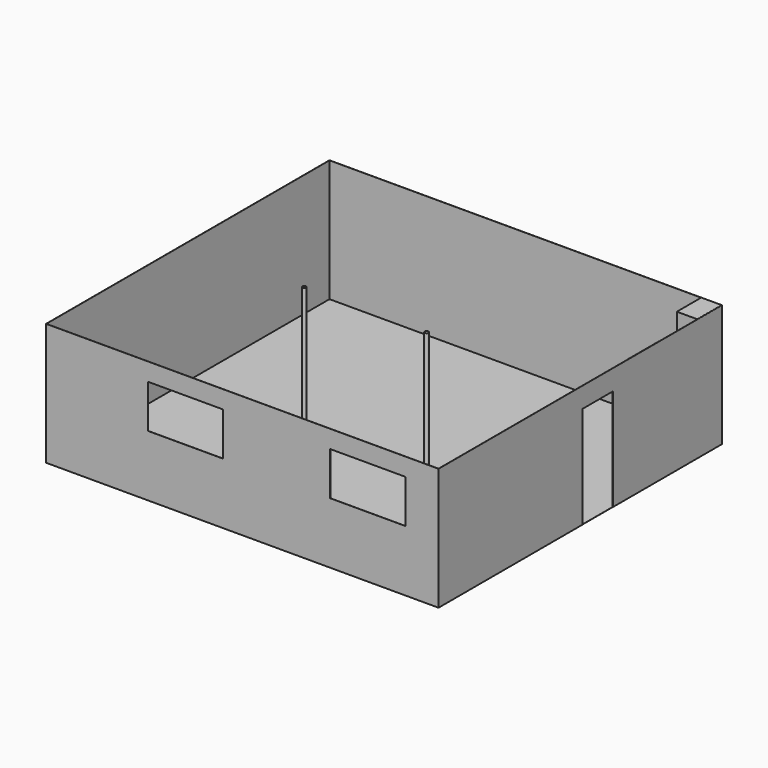
from build123d import *

# Parameters (mm, degrees)
F0_W      = 7823.2
F0_H      = 7061.2
F1_DEPTH  = 2438.4
F2_T      = -2.54
F3_W      = 1498.6
F3_H      = 863.6
F4_DEPTH  = 2.54
F5_W      = 762
F5_H      = 2032
F6_DEPTH  = 2.54
F7_R      = 38.1
F8_DEPTH  = 2438.4
F9_W      = 406.4
F9_H      = 609.6
F10_DEPTH = 2438.4
F11_W     = 711.2
F11_H     = 812.8
F12_DEPTH = 1803.4


with BuildPart() as f1:
    # F0 (on Top) → F1 (new body)
    with BuildSketch(Plane.XY):
        with Locations((435.2199990332, 73.9898422417)):
            Rectangle(F0_W, F0_H)
    extrude(amount=F1_DEPTH)

    # F2
    f2_openings = [f1.faces().sort_by_distance(p)[0] for p in [
        (435.219999, 73.989842, 2438.4),
    ]]
    offset(amount=F2_T, openings=f2_openings)

    # F3 (on face) → F4 (cut)
    with BuildSketch(Plane.XZ.offset(3456.6101577583)):
        with Locations((-695.0800009668, 1651)):
            Rectangle(F3_W, F3_H)
        with Locations((2937.1199990332, 1651)):
            Rectangle(F3_W, F3_H)
    extrude(amount=-F4_DEPTH, mode=Mode.SUBTRACT)

    # F5 (on face) → F6 (cut)
    with BuildSketch(Plane.YZ.offset(4346.8199990332)):
        with Locations((505.7898422417, 1016)):
            Rectangle(F5_W, F5_H)
    extrude(amount=-F6_DEPTH, mode=Mode.SUBTRACT)

    # F11 (on face) → F12 (join)
    with BuildSketch(Plane.XY.offset(2.54)):
        with Locations((3937.8799990332, 2586.0498422417)):
            Rectangle(F11_W, F11_H)
    extrude(amount=F12_DEPTH)


with BuildPart() as f8:
    # F7 (on face) → F8 (new body)
    with BuildSketch(Plane.XY):
        with Locations((-1114.1800009668, 23.1898422417)):
            Circle(F7_R)
    extrude(amount=F8_DEPTH)


with BuildPart() as f8b:
    # F7 (on face) → F8, piece 2 (new body)
    with BuildSketch(Plane.XY):
        with Locations((1324.2199990332, 23.1898422417)):
            Circle(F7_R)
    extrude(amount=F8_DEPTH)


with BuildPart() as f10:
    # F9 (on face) → F10 (new body)
    with BuildSketch(Plane.XY.offset(2.54)):
        with Locations((4141.0799990332, 3297.2498422417)):
            Rectangle(F9_W, F9_H)
    extrude(amount=F10_DEPTH)


solid = Compound([f1.part, f8.part, f8b.part, f10.part])
